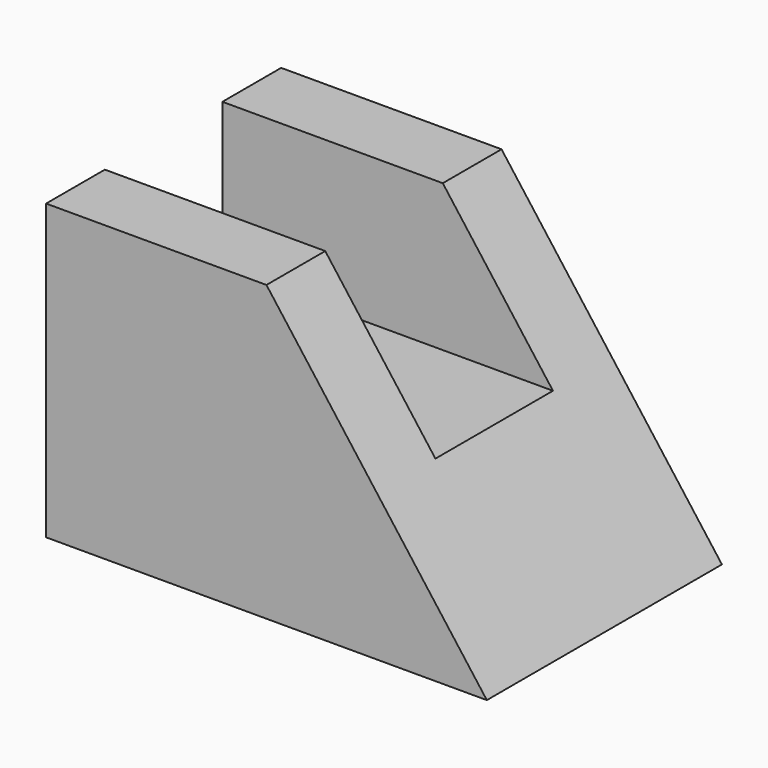
from build123d import *

# Parameters (mm, degrees)
F0_W     = 38.1
F0_H     = 25.4
F1_DEPTH = 12.7
F3_DEPTH = 63.5
F4_W     = 12.7
F4_H     = 12.7
F5_DEPTH = 50.8


with BuildPart() as f1:
    # F0 (on Front) → F1 (new body, symmetric)
    with BuildSketch(Plane.XZ):
        with Locations((19.05, 12.7)):
            Rectangle(F0_W, F0_H)
    extrude(amount=F1_DEPTH, both=True)

    # F2 (on Front) → F3 (cut, symmetric)
    with BuildSketch(Plane.XZ):
        Polygon((38.1, 25.4), (19.05, 25.4), (38.1, 0), align=None)
    extrude(amount=F3_DEPTH, both=True, mode=Mode.SUBTRACT)

    # F4 (on Right) → F5 (cut, symmetric)
    with BuildSketch(Plane.YZ):
        with Locations((0, 19.05)):
            Rectangle(F4_W, F4_H)
    extrude(amount=F5_DEPTH, both=True, mode=Mode.SUBTRACT)


solid = f1.part
